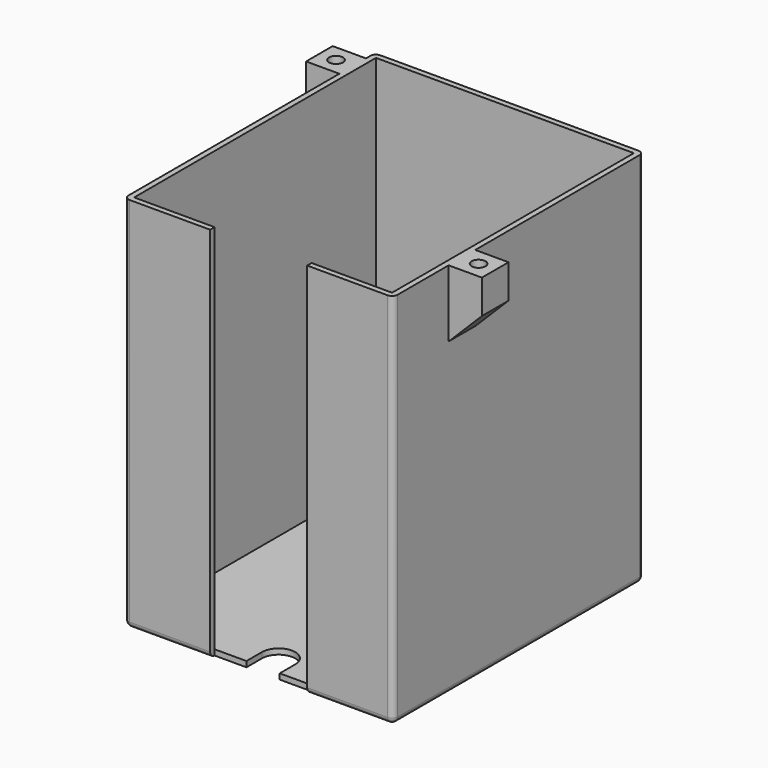
from build123d import *

# Parameters (mm, degrees)
SKETCH_W        = 46.5
SKETCH_H        = 54.5
PAD_DEPTH       = 67
THICKNESS_T     = 1
SKETCH001_W     = 6
SKETCH001_H     = 6
PAD001_DEPTH    = 12
CHAMFER_SIZE    = 5.9
SKETCH002_R     = 1.25
POCKET_DEPTH    = 6
SKETCH003_W     = 17.5
SKETCH003_H     = 68
POCKET001_DEPTH = 1
POCKET002_DEPTH = 1


with BuildPart() as part:
    # Sketch → Pad (new body)
    with BuildSketch(Plane.XY):
        with Locations((0, -5.25)):
            Rectangle(SKETCH_W, SKETCH_H)
    extrude(amount=PAD_DEPTH)

    # Thickness
    thickness_openings = [part.faces().sort_by_distance(p)[0] for p in [
        (0, -5.25, 67),
    ]]
    offset(amount=THICKNESS_T, openings=thickness_openings)

    # Sketch001 → Pad001 (new body)
    with BuildSketch(Plane.XY.offset(67)):
        with Locations((-27.25, 18)):
            Rectangle(SKETCH001_W, SKETCH001_H)
        with Locations((27.25, -18)):
            Rectangle(SKETCH001_W, SKETCH001_H)
    extrude(amount=-PAD001_DEPTH)

    # Chamfer
    chamfer_edges = [part.edges().sort_by_distance(p)[0] for p in [
        (-30.25, 18, 55),
        (30.25, -18, 55),
    ]]
    chamfer(chamfer_edges, length=CHAMFER_SIZE)

    # Sketch002 → Pocket (cut)
    with BuildSketch(Plane.XY.offset(67)):
        with Locations((-27.25, 18)):
            Circle(SKETCH002_R)
        with Locations((27.25, -18)):
            Circle(SKETCH002_R)
    extrude(amount=-POCKET_DEPTH, mode=Mode.SUBTRACT)

    # Sketch003 → Pocket001 (cut)
    with BuildSketch(Plane.XZ.offset(33.5)):
        with Locations((0, 33)):
            Rectangle(SKETCH003_W, SKETCH003_H)
    extrude(amount=-POCKET001_DEPTH, mode=Mode.SUBTRACT)

    # Sketch004 → Pocket002 (cut)
    with BuildSketch(Plane(origin=(0, 0, -1), x_dir=(1, 0, 0), z_dir=(0, 0, -1))):
        with BuildLine():
            ThreePointArc((-3, 29), (0, 26), (3, 29))
            Line((3, 29), (3, 39))
            ThreePointArc((3, 39), (0, 42), (-3, 39))
            Line((-3, 29), (-3, 39))
        make_face()
    extrude(amount=-POCKET002_DEPTH, mode=Mode.SUBTRACT)


solid = part.part
